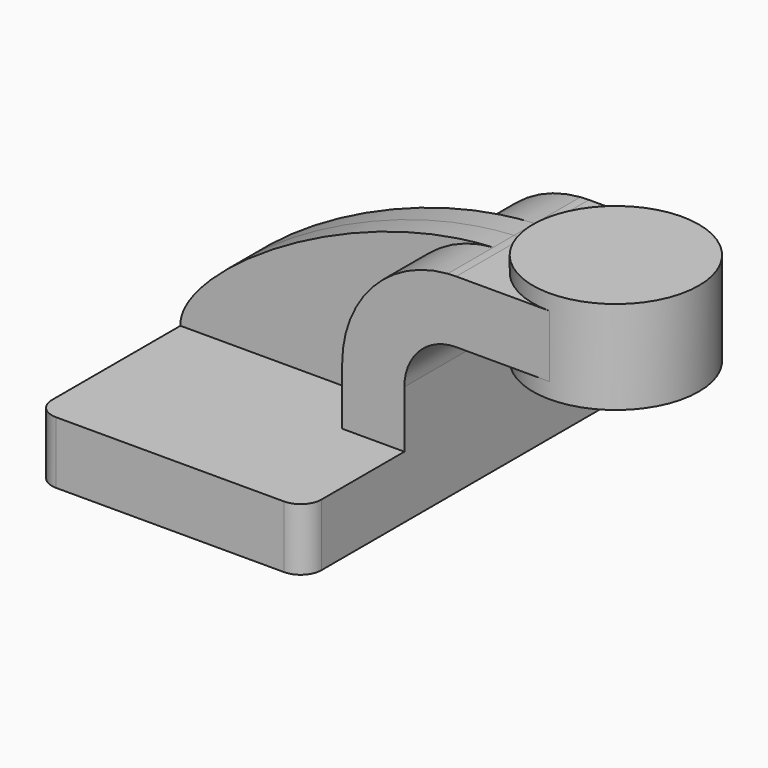
from build123d import *

# Parameters (mm, degrees)
F1_DEPTH = 63.5
F2_DEPTH = 25.4
F3_DEPTH = 7.9375
F4_DEPTH = 25.4
F6_R     = 6.35


with BuildPart() as f1:
    # F0 (on Front) → F1 (new body, symmetric)
    with BuildSketch(Plane.XZ):
        Polygon((-41.275, 9.525), (-41.275, -9.525), (41.275, -9.525), (41.275, 9.525), (22.225, 9.525), align=None)
    extrude(amount=F1_DEPTH, both=True)

    # F0 (on Front) → F2 (join, symmetric)
    with BuildSketch(Plane.XZ):
        with BuildLine():
            Line((22.225, 9.525), (41.275, 9.525))
            Line((41.275, 9.525), (41.275, 27.0002))
            ThreePointArc((41.275, 27.0002), (45.92468, 38.22552), (57.15, 42.8752))
            Line((57.15, 42.8752), (60.325, 42.8752))
            Line((60.325, 42.8752), (60.325, 61.9252))
            Line((60.325, 61.9252), (57.15, 61.9252))
            add(Edge.make_bspline(
                [(54.548999, 61.828212), (55.417476, 61.872022), (56.284596, 61.904465), (57.15, 61.9252)],
                knots=[109.453159, 109.453159, 109.453159, 109.453159, 111.504536, 111.504536, 111.504536, 111.504536], degree=3))
            ThreePointArc((54.548999, 61.828212), (31.551215, 50.758521), (22.225, 27.0002))
            Line((22.225, 27.0002), (22.225, 9.525))
        make_face()
    extrude(amount=F2_DEPTH, both=True)

    # F0 (on Front) → F3 (join, symmetric)
    with BuildSketch(Plane.XZ):
        with BuildLine():
            add(Edge.make_bspline(
                [(-41.275, 9.525), (-41.989152, 24.791583), (8.210591, 59.490663), (54.548999, 61.828212)],
                knots=[0, 0, 0, 0, 109.453159, 109.453159, 109.453159, 109.453159], degree=3))
            Line((-41.275, 9.525), (22.225, 9.525))
            Line((22.225, 9.525), (22.225, 27.0002))
            ThreePointArc((22.225, 27.0002), (31.551215, 50.758521), (54.548999, 61.828212))
        make_face()
    extrude(amount=F3_DEPTH, both=True)

    # F0 (on Front) → F4 (join, symmetric)
    with BuildSketch(Plane.XZ):
        Polygon((71.658204, 61.9252), (60.325, 61.9252), (60.325, 42.8752), (71.658204, 42.8752), (85.725, 42.8752), (85.725, 61.9252), align=None)
    extrude(amount=F4_DEPTH, both=True)

    # F0 (on Front) → F5 (revolve)
    with BuildSketch(Plane.XZ):
        Polygon((111.125, 66.675), (85.725, 66.675), (85.725, 61.9252), (85.725, 42.8752), (85.725, 38.1), (111.125, 38.1), align=None)
    revolve(axis=Axis((85.725, 0, 52.3875), (0, 0, 1)))

    # F6
    f6_edges = [f1.edges().sort_by_distance(p)[0] for p in [
        (41.275, -63.5, 0),
        (-41.275, -63.5, 0),
        (41.275, 63.5, 0),
        (-41.275, 63.5, 0),
    ]]
    fillet(f6_edges, radius=F6_R)


solid = f1.part
